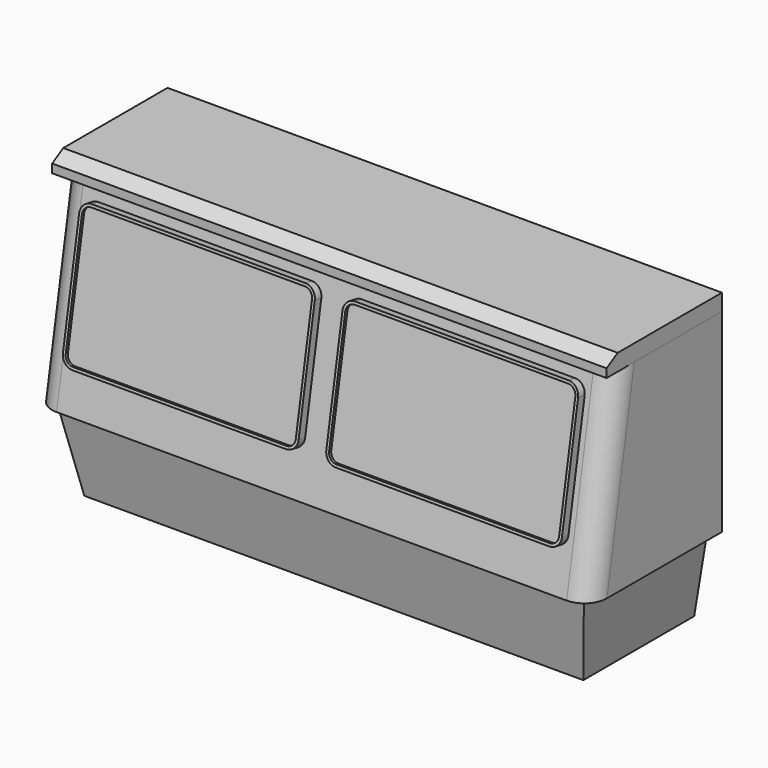
from build123d import *

# Parameters (mm, degrees)
F1_DEPTH  = 50
F3_DEPTH  = 50
F4_W      = 95
F4_H      = 28
F6_W      = 90
F6_H      = 25
F9_DEPTH  = 1.5
F11_DEPTH = 0.5
F13_R     = 4


with BuildPart() as f1:
    # F0 (on Right) → F1 (new body, symmetric)
    with BuildSketch(Plane.YZ):
        Polygon((-30, 0), (0, 0), (0, 35), (-23.828556, 35), align=None)
    extrude(amount=F1_DEPTH, both=True)

    # F13
    f13_edges = [f1.edges().sort_by_distance(p)[0] for p in [
        (-50, -26.914278, 17.5),
        (50, -26.914278, 17.5),
    ]]
    fillet(f13_edges, radius=F13_R)


with BuildPart() as f3:
    # F2 (on Right) → F3 (new body, symmetric)
    with BuildSketch(Plane.YZ):
        Polygon((0, 35), (0, 38), (-23.5, 38), (-26, 36.556624), (-26, 35), align=None)
    extrude(amount=F3_DEPTH, both=True)


with BuildPart() as f7:
    # F4 (on face) → F7 section 0
    with BuildSketch(Plane(origin=(0, 0, 0), x_dir=(1, 0, 0), z_dir=(0, 0, -1))):
        with Locations((0, 14)):
            Rectangle(F4_W, F4_H)
    # F6 (on offset) → F7 section 1
    with BuildSketch(Plane.XY.offset(-15)):
        with Locations((0, -12.5)):
            Rectangle(F6_W, F6_H)
    loft()


with BuildPart() as f9:
    # F8 (on face) → F9 (new body)
    with BuildSketch(Plane(origin=(0, -29.095389, 5.130302), x_dir=(1, 0, 0), z_dir=(0, -0.984808, 0.173648))):
        with BuildLine():
            Line((-4.5, 27.330486), (-43, 27.330486))
            ThreePointArc((-43, 27.330486), (-44.414214, 26.7447), (-45, 25.330486))
            Line((-45, 25.330486), (-45, 4.330486))
            ThreePointArc((-45, 4.330486), (-44.414214, 2.916273), (-43, 2.330486))
            Line((-43, 2.330486), (-4.5, 2.330486))
            ThreePointArc((-4.5, 2.330486), (-3.085786, 2.916273), (-2.5, 4.330486))
            Line((-2.5, 4.330486), (-2.5, 25.330486))
            ThreePointArc((-2.5, 25.330486), (-3.085786, 26.7447), (-4.5, 27.330486))
        make_face()
    extrude(amount=F9_DEPTH)

    # F10 (on face) → F11 (cut)
    with BuildSketch(Plane(origin=(0, -30.572601, 5.390774), x_dir=(1, 0, 0), z_dir=(0, -0.984808, 0.173648))):
        with BuildLine():
            ThreePointArc((-43, 26.830486), (-44.06066, 26.391146), (-44.5, 25.330486))
            Line((-44.5, 25.330486), (-44.5, 4.330486))
            ThreePointArc((-44.5, 4.330486), (-44.06066, 3.269826), (-43, 2.830486))
            Line((-43, 2.830486), (-4.5, 2.830486))
            ThreePointArc((-4.5, 2.830486), (-3.43934, 3.269826), (-3, 4.330486))
            Line((-3, 4.330486), (-3, 25.330486))
            ThreePointArc((-3, 25.330486), (-3.43934, 26.391146), (-4.5, 26.830486))
            Line((-4.5, 26.830486), (-43, 26.830486))
        make_face()
    extrude(amount=-F11_DEPTH, mode=Mode.SUBTRACT)


with BuildPart() as f12_1:
    # F12: instance of F9
    add(f9.part.mirror(Plane.YZ))


solid = Compound([f1.part, f3.part, f7.part, f9.part, f12_1.part])
